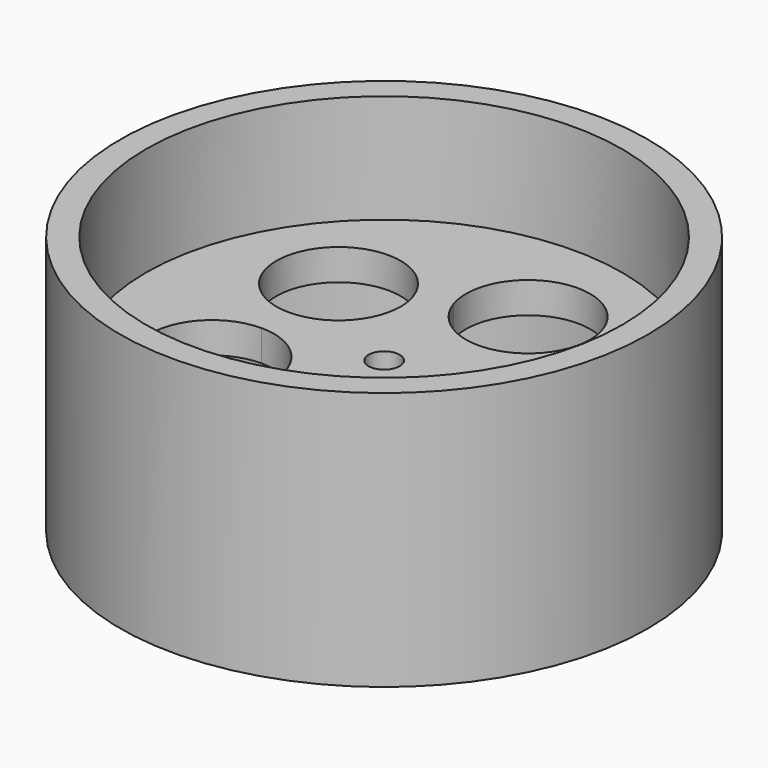
from build123d import *

# Parameters (mm, degrees)
F0_R     = 25.5
F0_R_2   = 23
F2_DEPTH = 25
F1_R     = 5
F1_R_2   = 1.5
F3_DEPTH = 14.5
F4_R     = 23
F4_R_2   = 5
F5_DEPTH = 3


with BuildPart() as f2:
    # F0 (on Top) → F2 (new body)
    with BuildSketch(Plane.XY):
        Circle(F0_R)
        Circle(F0_R_2, mode=Mode.SUBTRACT)
    extrude(amount=F2_DEPTH)



with BuildPart() as f3:
    # F1 (on Top) → F3 (new body)
    with BuildSketch(Plane.XY):
        Circle(F1_R)
        Circle(F1_R_2, mode=Mode.SUBTRACT)
    extrude(amount=F3_DEPTH)


with BuildPart() as f2_1:
    add(f2.part)

    add(f3.part)  # F5 merges F3
    # F4 (on face) → F5 (join)
    with BuildSketch(Plane.XY.offset(14.5)):
        Circle(F4_R)
        with BuildLine():
            ThreePointArc((19, 0), (15.723943, -5.346039), (9.473288, -4.854102))
            Line((9.473288, -4.854102), (7.543932, -7.509633))
            ThreePointArc((7.543932, -7.509633), (9.36326, -9.639792), (10.017221, -12.363735))
            ThreePointArc((10.017221, -12.363735), (3.078614, -18.289865), (-1.689118, -10.509633))
            Line((-1.689118, -10.509633), (-4.810882, -9.49531))
            ThreePointArc((-4.810882, -9.49531), (-15.371323, -11.16792), (-10.517221, -1.641208))
            Line((-10.517221, -1.641208), (-10.517221, 1.641208))
            ThreePointArc((-10.517221, 1.641208), (-15.371323, 11.16792), (-4.810882, 9.49531))
            Line((-4.810882, 9.49531), (-1.689118, 10.509633))
            ThreePointArc((-1.689118, 10.509633), (3.078614, 18.289865), (10.017221, 12.363735))
            ThreePointArc((10.017221, 12.363735), (9.36326, 9.639792), (7.543932, 7.509633))
            Line((7.543932, 7.509633), (9.473288, 4.854102))
            ThreePointArc((9.473288, 4.854102), (15.723943, 5.346039), (19, 0))
        make_face(mode=Mode.SUBTRACT)
        with BuildLine():
            Line((7.543932, -7.509633), (9.473288, -4.854102))
            ThreePointArc((9.473288, -4.854102), (7, 0), (9.473288, 4.854102))
            Line((9.473288, 4.854102), (7.543932, 7.509633))
            ThreePointArc((7.543932, 7.509633), (2.163119, 6.657396), (-1.689118, 10.509633))
            Line((-1.689118, 10.509633), (-4.810882, 9.49531))
            ThreePointArc((-4.810882, 9.49531), (-4.591091, 8.579815), (-4.517221, 7.641208))
            ThreePointArc((-4.517221, 7.641208), (-6.27458, 3.398568), (-10.517221, 1.641208))
            Line((-10.517221, 1.641208), (-10.517221, -1.641208))
            ThreePointArc((-10.517221, -1.641208), (-6.27458, -3.398568), (-4.517221, -7.641208))
            ThreePointArc((-4.517221, -7.641208), (-4.591091, -8.579815), (-4.810882, -9.49531))
            Line((-4.810882, -9.49531), (-1.689118, -10.509633))
            ThreePointArc((-1.689118, -10.509633), (2.163119, -6.657396), (7.543932, -7.509633))
        make_face()
        Circle(F4_R_2, mode=Mode.SUBTRACT)
    extrude(amount=-F5_DEPTH)


solid = f2_1.part
